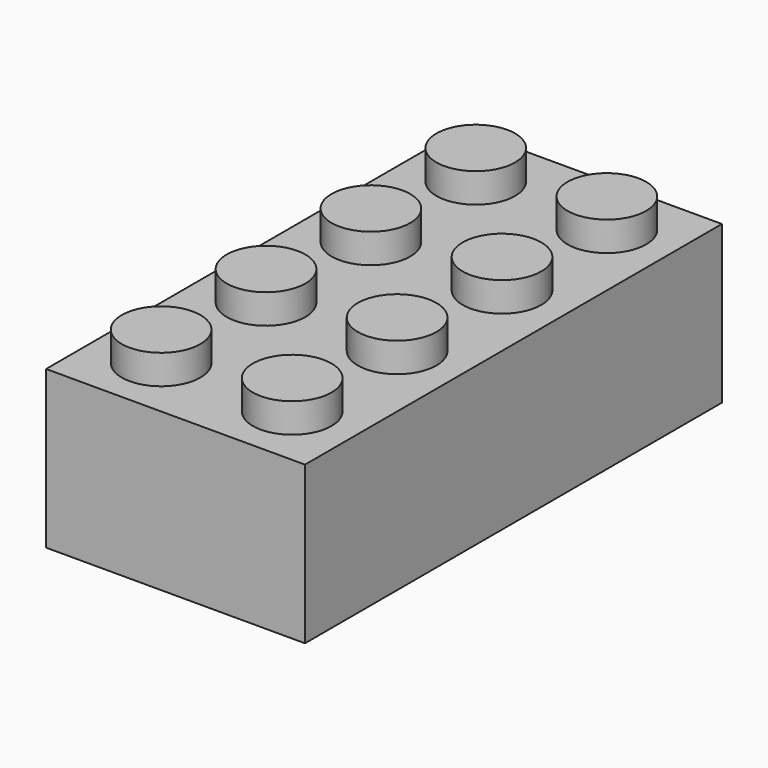
from build123d import *

# Parameters (mm, degrees)
F0_W     = 401.32
F0_H     = 243.84
F1_DEPTH = 807.72
F2_R     = 60.96
F3_DEPTH = 45.72
F4_W     = 340.36
F4_H     = 746.76
F5_DEPTH = 213.36
F6_R     = 82.55
F6_R_2   = 60.96
F7_DEPTH = 213.36


with BuildPart() as f1:
    # F0 (on Front) → F1 (new body)
    with BuildSketch(Plane.XZ):
        with Locations((200.66, 30.160911)):
            Rectangle(F0_W, F0_H)
    extrude(amount=-F1_DEPTH)

    # F2 (on face) → F3 (join)
    with BuildSketch(Plane.XY.offset(152.080911)):
        with Locations((302.26, 302.26)):
            Circle(F2_R)
        with Locations((302.26, 99.06)):
            Circle(F2_R)
        with Locations((99.06, 99.06)):
            Circle(F2_R)
        with Locations((99.06, 302.26)):
            Circle(F2_R)
        with Locations((99.06, 505.46)):
            Circle(F2_R)
        with Locations((302.26, 505.46)):
            Circle(F2_R)
        with Locations((302.26, 708.66)):
            Circle(F2_R)
        with Locations((99.06, 708.66)):
            Circle(F2_R)
    extrude(amount=F3_DEPTH)

    # F4 (on face) → F5 (cut)
    with BuildSketch(Plane(origin=(0, 0, -91.759089), x_dir=(1, 0, 0), z_dir=(0, 0, -1))):
        with Locations((200.66, -403.86)):
            Rectangle(F4_W, F4_H)
    extrude(amount=-F5_DEPTH, mode=Mode.SUBTRACT)

    # F6 (on face) → F7 (join)
    with BuildSketch(Plane(origin=(0, 0, 121.600911), x_dir=(1, 0, 0), z_dir=(0, 0, -1))):
        with Locations((200.66, -196.85)):
            Circle(F6_R)
        with Locations((200.66, -196.85)):
            Circle(F6_R_2, mode=Mode.SUBTRACT)
        with Locations((200.66, -603.25)):
            Circle(F6_R)
        with Locations((200.66, -603.25)):
            Circle(F6_R_2, mode=Mode.SUBTRACT)
        with Locations((200.66, -400.05)):
            Circle(F6_R)
        with Locations((200.66, -400.05)):
            Circle(F6_R_2, mode=Mode.SUBTRACT)
    extrude(amount=F7_DEPTH)


solid = f1.part
